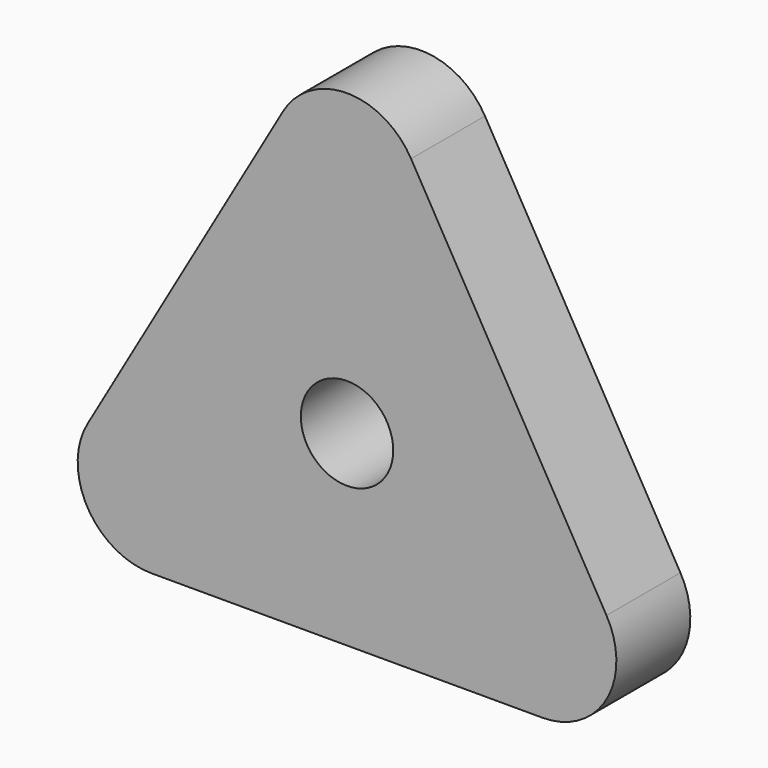
from build123d import *

# Parameters (mm, degrees)
F1_DEPTH = 12.7
F2_R     = 6.35
F3_DEPTH = 25.4


with BuildPart() as f1:
    # F0 (on Front) → F1 (new body)
    with BuildSketch(Plane.XZ):
        with BuildLine():
            ThreePointArc((8.798818, 10.16), (0, 15.24), (-8.798818, 10.16))
            Line((-8.798818, 10.16), (-35.651182, -36.349658))
            ThreePointArc((-35.651182, -36.349658), (-35.651182, -46.509658), (-26.852364, -51.589658))
            Line((-26.852364, -51.589658), (26.852364, -51.589658))
            ThreePointArc((26.852364, -51.589658), (35.651182, -46.509658), (35.651182, -36.349658))
            Line((35.651182, -36.349658), (8.798818, 10.16))
        make_face()
    extrude(amount=F1_DEPTH)

    # F2 (on face) → F3 (cut)
    with BuildSketch(Plane.XZ.offset(12.7)):
        with Locations((0, -25.926439)):
            Circle(F2_R)
    extrude(amount=-F3_DEPTH, mode=Mode.SUBTRACT)


solid = f1.part
